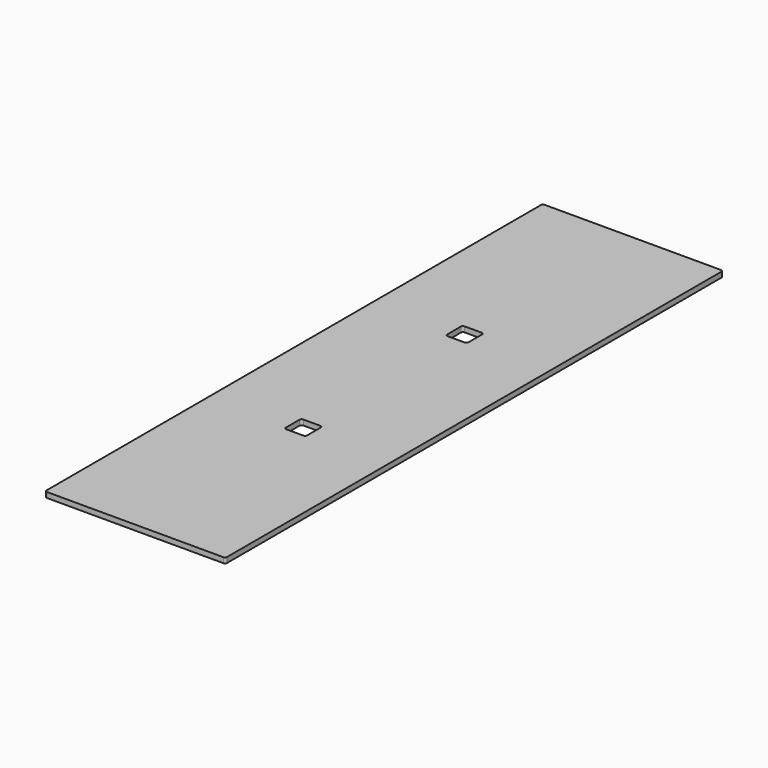
from build123d import *

# Parameters (mm, degrees)
F0_W     = 170
F0_H     = 586
F1_DEPTH = 5
F2_W     = 20
F2_H     = 20
F3_DEPTH = 25
F4_R     = 2


with BuildPart() as f1:
    # F0 (on Top) → F1 (new body)
    with BuildSketch(Plane.XY):
        Rectangle(F0_W, F0_H)
    extrude(amount=F1_DEPTH)

    # F2 (on face) → F3 (cut)
    with BuildSketch(Plane.XY.offset(5)):
        with Locations((0, 95)):
            Rectangle(F2_W, F2_H)
        with Locations((0, -95)):
            Rectangle(F2_W, F2_H)
    extrude(amount=-F3_DEPTH, mode=Mode.SUBTRACT)

    # F4
    f4_edges = [f1.edges().sort_by_distance(p)[0] for p in [
        (-85, -293, 2.5),
        (85, -293, 2.5),
        (85, 293, 2.5),
        (-10, 105, 2.5),
        (-10, -85, 2.5),
        (-10, 85, 2.5),
        (-10, -105, 2.5),
        (10, 105, 2.5),
        (-85, 293, 2.5),
        (10, -85, 2.5),
        (10, -105, 2.5),
        (10, 85, 2.5),
    ]]
    fillet(f4_edges, radius=F4_R)


solid = f1.part
